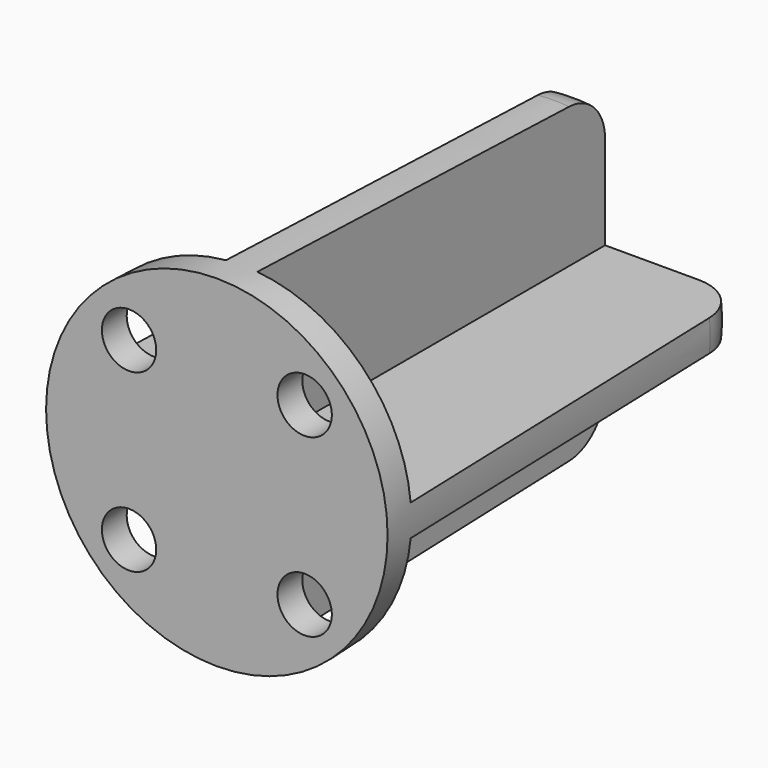
from build123d import *

# Parameters (mm, degrees)
F2_W     = 20
F2_H     = 18.99
F3_DEPTH = 28
F4_R     = 3
F5_R     = 1.75
F6_DEPTH = 25


with BuildPart() as f1:
    # F0 (on Top) → F1 (revolve)
    with BuildSketch(Plane.XY):
        Polygon((0, 30), (0, 0), (11, 0), (10, 30), align=None)
    revolve(axis=Axis((0, 15, 0), (0, 1, 0)))

    # F2 (on face) → F3 (cut, through all)
    with BuildSketch(Plane(origin=(0, 30, 0), x_dir=(-1, 0, 0), z_dir=(0, 1, 0))):
        with Locations((11.01, 10.505)):
            Rectangle(F2_W, F2_H)
        with Locations((-11.01, 10.505)):
            Rectangle(F2_W, F2_H)
        with Locations((11.01, -10.505)):
            Rectangle(F2_W, F2_H)
        with Locations((-11.01, -10.505)):
            Rectangle(F2_W, F2_H)
    extrude(amount=-F3_DEPTH, mode=Mode.SUBTRACT)

    # F4
    f4_edges = [f1.edges().sort_by_distance(p)[0] for p in [
        (9.987208, 30, 0.505647),
        (0, 30, 10),
        (-10, 30, 0),
        (0, 30, -10),
    ]]
    fillet(f4_edges, radius=F4_R)

    # F5 (on face) → F6 (cut)
    with BuildSketch(Plane(origin=(0, 2, 0), x_dir=(-1, 0, 0), z_dir=(0, 1, 0))):
        with Locations((-5.6568542495, 5.6568542495)):
            Circle(F5_R)
        with Locations((5.6568542495, -5.6568542495)):
            Circle(F5_R)
        with Locations((-5.6568542495, -5.6568542495)):
            Circle(F5_R)
        with Locations((5.6568542495, 5.6568542495)):
            Circle(F5_R)
    extrude(amount=-F6_DEPTH, mode=Mode.SUBTRACT)


solid = f1.part
